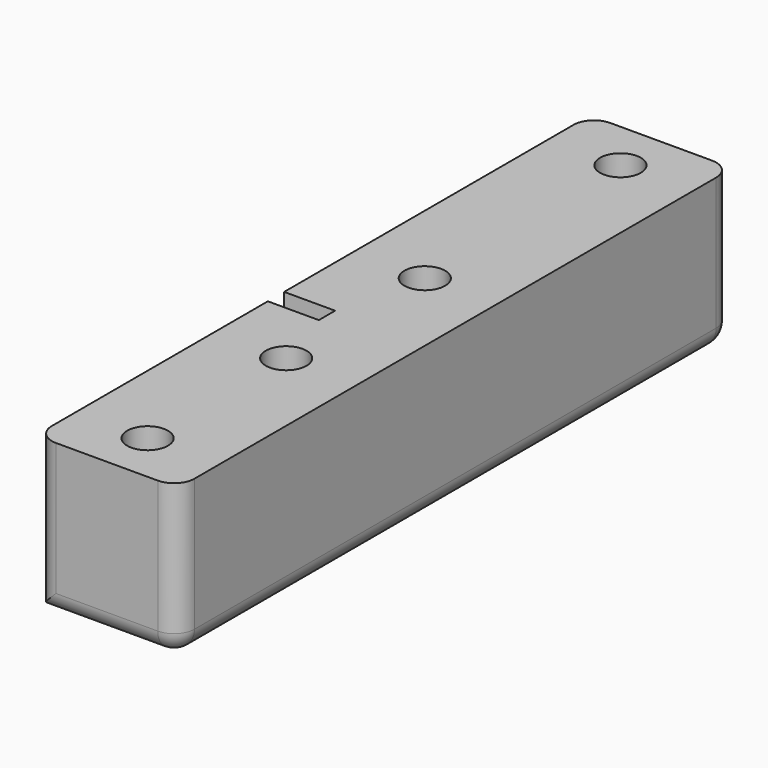
from build123d import *

# Parameters (mm, degrees)
F0_W     = 14
F0_H     = 28
F0_R     = 2
F1_DEPTH = 15
F0_H_2   = 38
F2_W     = 2.6328479201
F2_H     = 15
F3_DEPTH = 9
F5_DEPTH = 5
F7_DEPTH = 5
F8_R     = 2


with BuildPart() as f1:
    # F0 (on Top) → F1 (new body)
    with BuildSketch(Plane.XY):
        with Locations((7, 14)):
            Rectangle(F0_W, F0_H)
        with Locations((7, 5)):
            Circle(F0_R, mode=Mode.SUBTRACT)
        with Locations((7, 22)):
            Circle(F0_R, mode=Mode.SUBTRACT)
    extrude(amount=F1_DEPTH)



with BuildPart() as f1b:
    # F0 (on Top) → F1, piece 2 (new body)
    with BuildSketch(Plane.XY):
        with Locations((7, 49)):
            Rectangle(F0_W, F0_H_2)
        with Locations((7, 39)):
            Circle(F0_R, mode=Mode.SUBTRACT)
        with Locations((7, 63)):
            Circle(F0_R, mode=Mode.SUBTRACT)
    extrude(amount=F1_DEPTH)


with BuildPart() as f1_1:
    add(f1.part)

    add(f1b.part)  # F3 merges F1b
    # F2 (on face) → F3 (join)
    with BuildSketch(Plane.YZ.offset(14)):
        with Locations((29.31642396, 7.5)):
            Rectangle(F2_W, F2_H)
    extrude(amount=-F3_DEPTH)

    # F4 (on face) → F5 (join)
    with BuildSketch(Plane(origin=(0, 0, 0), x_dir=(0, -1, 0), z_dir=(-1, 0, 0))):
        Polygon((-28, 0), (-28, 15), (-28.5, 15), align=None)
    extrude(amount=-F5_DEPTH)

    # F6 (on face) → F7 (cut)
    with BuildSketch(Plane(origin=(0, 0, 0), x_dir=(0, -1, 0), z_dir=(-1, 0, 0))):
        Polygon((-30, 0), (-30, 15), (-30.5, 15), align=None)
    extrude(amount=-F7_DEPTH, mode=Mode.SUBTRACT)

    # F8
    f8_edges = [f1_1.edges().sort_by_distance(p)[0] for p in [
        (2.5, 30, 0),
        (5, 29, 0),
        (2.5, 28, 0),
        (7, 0, 0),
        (14, 34, 0),
        (7, 68, 0),
        (0, 68, 7.5),
        (14, 68, 7.5),
        (0, 0, 7.5),
        (14, 0, 7.5),
    ]]
    fillet(f8_edges, radius=F8_R)


solid = f1_1.part
